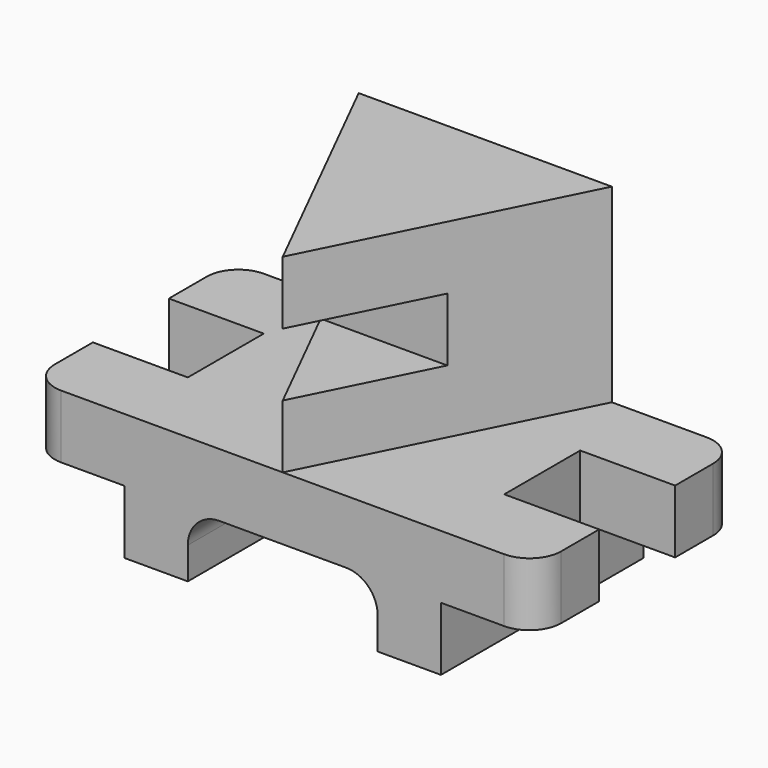
from build123d import *

# Parameters (mm, degrees)
F1_DEPTH      = 76.2
F2_W          = 50.8
F2_H          = 25.4
F3_DEPTH      = 50.801
F3_DEPTH_BACK = 50.801
F5_DEPTH      = 25.4
F6_DEPTH      = 25.4
F7_W          = 25.4
F7_H          = 25.4968867362
F8_DEPTH      = 101.6
F9_R          = 12.7


with BuildPart() as f1:
    # F0 (on Top) → F1 (new body)
    with BuildSketch(Plane.XY):
        Polygon((-50.8, 101.6), (0, 0), (50.8, 101.6), align=None)
    extrude(amount=F1_DEPTH)

    # F2 (on Right) → F3 (cut, two sides)
    with BuildSketch(Plane.YZ) as f3_sk:
        with Locations((25.4, 38.1)):
            Rectangle(F2_W, F2_H)
    extrude(amount=-F3_DEPTH, mode=Mode.SUBTRACT)
    extrude(f3_sk.sketch, amount=F3_DEPTH_BACK, mode=Mode.SUBTRACT)

    # F4 (on face) → F5 (join)
    with BuildSketch(Plane(origin=(0, 0, 0), x_dir=(1, 0, 0), z_dir=(0, 0, -1))):
        with BuildLine():
            Line((63.5, -31.75), (101.6, -31.75))
            Line((101.6, -31.75), (101.6, -12.7))
            ThreePointArc((101.6, -12.7), (97.8802561211, -3.7197438789), (88.9, 0))
            Line((88.9, 0), (-88.9, 0))
            ThreePointArc((-88.9, 0), (-97.8802561211, -3.7197438789), (-101.6, -12.7))
            Line((-101.6, -12.7), (-101.6, -31.75))
            Line((-101.6, -31.75), (-63.5, -31.75))
            Line((-63.5, -31.75), (-63.5, -69.85))
            Line((-63.5, -69.85), (-101.6, -69.85))
            Line((-101.6, -69.85), (-101.6, -88.9))
            ThreePointArc((-101.6, -88.9), (-97.8802561211, -97.8802561211), (-88.9, -101.6))
            Line((-88.9, -101.6), (-50.8, -101.6))
            Line((-50.8, -101.6), (50.8, -101.6))
            Line((50.8, -101.6), (88.9, -101.6))
            ThreePointArc((88.9, -101.6), (97.8802561211, -97.8802561211), (101.6, -88.9))
            Line((101.6, -88.9), (101.6, -69.85))
            Line((101.6, -69.85), (63.5, -69.85))
            Line((63.5, -69.85), (63.5, -31.75))
        make_face()
    extrude(amount=F5_DEPTH)

    # F4 (on face) → F6 (join)
    with BuildSketch(Plane(origin=(0, 0, 0), x_dir=(1, 0, 0), z_dir=(0, 0, -1))):
        with BuildLine():
            Line((63.5, -31.75), (101.6, -31.75))
            Line((101.6, -31.75), (101.6, -12.7))
            ThreePointArc((101.6, -12.7), (97.8802561211, -3.7197438789), (88.9, 0))
            Line((88.9, 0), (-88.9, 0))
            ThreePointArc((-88.9, 0), (-97.8802561211, -3.7197438789), (-101.6, -12.7))
            Line((-101.6, -12.7), (-101.6, -31.75))
            Line((-101.6, -31.75), (-63.5, -31.75))
            Line((-63.5, -31.75), (-63.5, -69.85))
            Line((-63.5, -69.85), (-101.6, -69.85))
            Line((-101.6, -69.85), (-101.6, -88.9))
            ThreePointArc((-101.6, -88.9), (-97.8802561211, -97.8802561211), (-88.9, -101.6))
            Line((-88.9, -101.6), (-50.8, -101.6))
            Line((-50.8, -101.6), (50.8, -101.6))
            Line((50.8, -101.6), (88.9, -101.6))
            ThreePointArc((88.9, -101.6), (97.8802561211, -97.8802561211), (101.6, -88.9))
            Line((101.6, -88.9), (101.6, -69.85))
            Line((101.6, -69.85), (63.5, -69.85))
            Line((63.5, -69.85), (63.5, -31.75))
        make_face()
    extrude(amount=F6_DEPTH)

    # F7 (on face) → F8 (join)
    with BuildSketch(Plane.XZ):
        with Locations((-50.8, -38.1484433681)):
            Rectangle(F7_W, F7_H)
        with Locations((50.8, -38.1484433681)):
            Rectangle(F7_W, F7_H)
    extrude(amount=-F8_DEPTH)

    # F9
    f9_edges = [f1.edges().sort_by_distance(p)[0] for p in [
        (-38.1, 50.8, -25.4),
        (38.1, 50.8, -25.4),
    ]]
    fillet(f9_edges, radius=F9_R)


solid = f1.part
